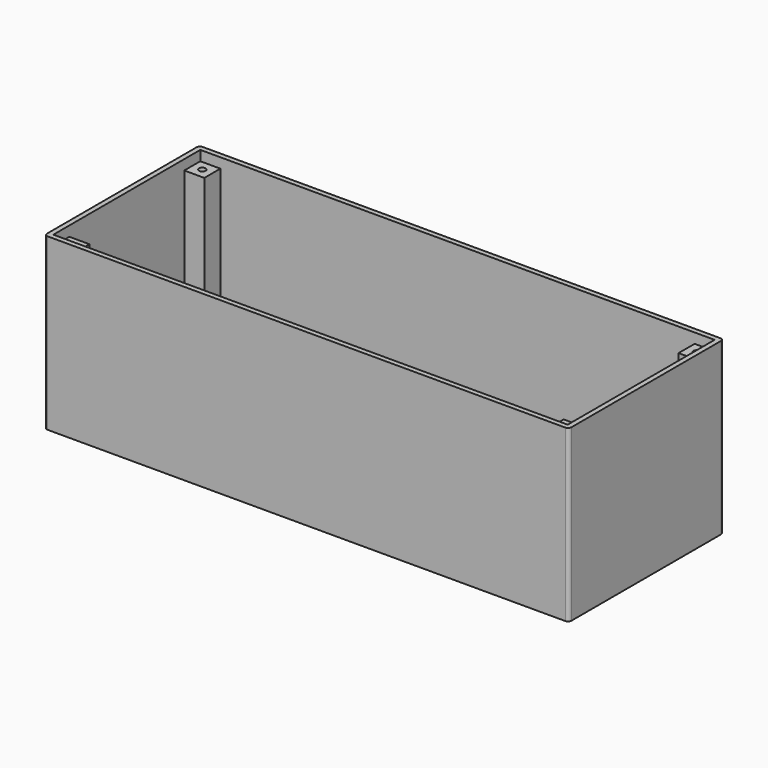
from build123d import *

# Parameters (mm, degrees)
SKETCH_W        = 157
SKETCH_H        = 58
PAD_DEPTH       = 1
SKETCH001_W     = 157
SKETCH001_H     = 58
SKETCH001_W_2   = 154
SKETCH001_H_2   = 55
PAD001_DEPTH    = 50
SKETCH002_W     = 6
SKETCH002_H     = 6
PAD002_DEPTH    = 47
SKETCH003_R     = 1
POCKET_DEPTH    = 20
SKETCH004_W     = 4
SKETCH004_H     = 10
SKETCH004_W_2   = 8.1
SKETCH004_H_2   = 8.1
PAD003_DEPTH    = 5
SKETCH005_R     = 1
POCKET001_DEPTH = 5
SKETCH006_W     = 10
SKETCH006_H     = 5
POCKET002_DEPTH = 1.5
FILLET_R        = 1


with BuildPart() as part:
    # Sketch → Pad (new body)
    with BuildSketch(Plane.XY):
        with Locations((78.5, 29)):
            Rectangle(SKETCH_W, SKETCH_H)
    extrude(amount=PAD_DEPTH)

    # Sketch001 (on Face6 of Pad) → Pad001 (join)
    with BuildSketch(Plane.XY.offset(1)):
        with Locations((78.5, 29)):
            Rectangle(SKETCH001_W, SKETCH001_H)
        with Locations((78.5, 29)):
            Rectangle(SKETCH001_W_2, SKETCH001_H_2, mode=Mode.SUBTRACT)
    extrude(amount=PAD001_DEPTH)

    # Sketch002 (on Face15 of Pad001) → Pad002 (join)
    with BuildSketch(Plane.XY.offset(1)):
        with Locations((4.5, 53.5)):
            Rectangle(SKETCH002_W, SKETCH002_H)
        with Locations((152.5, 53.5)):
            Rectangle(SKETCH002_W, SKETCH002_H)
        with Locations((152.5, 4.5)):
            Rectangle(SKETCH002_W, SKETCH002_H)
        with Locations((4.5, 4.5)):
            Rectangle(SKETCH002_W, SKETCH002_H)
    extrude(amount=PAD002_DEPTH)

    # Sketch003 (on Face15 of Pad002) → Pocket (cut)
    with BuildSketch(Plane.XY.offset(48)):
        with Locations((4.5, 53.5)):
            Circle(SKETCH003_R)
        with Locations((4.5, 4.5)):
            Circle(SKETCH003_R)
        with Locations((152.5, 4.5)):
            Circle(SKETCH003_R)
        with Locations((152.5, 53.5)):
            Circle(SKETCH003_R)
    extrude(amount=-POCKET_DEPTH, mode=Mode.SUBTRACT)

    # Sketch004 (on Face17 of Pocket) → Pad003 (join)
    with BuildSketch(Plane.XY.offset(1)):
        with Locations((3.5, 38.05)):
            Rectangle(SKETCH004_W, SKETCH004_H)
        with Locations((3.5, 19.95)):
            Rectangle(SKETCH004_W, SKETCH004_H)
        with Locations((49.55, 29)):
            Rectangle(SKETCH004_W_2, SKETCH004_H_2)
    extrude(amount=PAD003_DEPTH)

    # Sketch005 (on Face28 of Pad003) → Pocket001 (cut)
    with BuildSketch(Plane.XY.offset(6)):
        with Locations((3.5, 34.7)):
            Circle(SKETCH005_R)
        with Locations((3.5, 23.3)):
            Circle(SKETCH005_R)
    extrude(amount=-POCKET001_DEPTH, mode=Mode.SUBTRACT)

    # Sketch006 (on Face7 of Pocket001) → Pocket002 (cut)
    with BuildSketch(Plane(origin=(0, 0, 0), x_dir=(0, -1, 0), z_dir=(-1, 0, 0))):
        with Locations((-29, 8.5)):
            Rectangle(SKETCH006_W, SKETCH006_H)
    extrude(amount=-POCKET002_DEPTH, mode=Mode.SUBTRACT)

    # Fillet
    fillet_edges = [part.edges().sort_by_distance(p)[0] for p in [
        (157, 0, 26),
        (157, 58, 26),
        (0, 58, 26),
        (0, 0, 26),
    ]]
    fillet(fillet_edges, radius=FILLET_R)


solid = part.part
